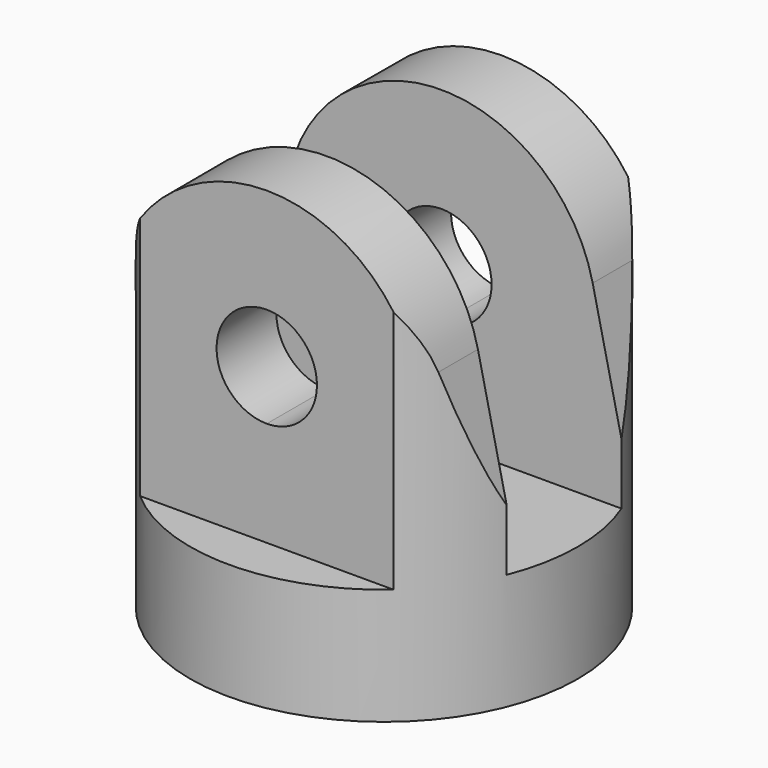
from build123d import *

# Parameters (mm, degrees)
F0_R     = 12.7
F1_DEPTH = 7.62
F3_DEPTH = 12.7
F4_W     = 3.0988
F4_H     = 21.7537892061
F4_H_2   = 20.3239873993
F5_DEPTH = 12.7
F6_DEPTH = 12.7
F7_DEPTH = 25.4
F8_DEPTH = 12.7


with BuildPart() as f1:
    # F0 (on Top) → F1 (new body)
    with BuildSketch(Plane.XY):
        Circle(F0_R)
    extrude(amount=F1_DEPTH)

    # F2 (on Front) → F3 (cut, symmetric)
    with BuildSketch(Plane.XZ):
        with BuildLine():
            ThreePointArc((0, 21.0693), (-3.2893, 17.78), (0, 14.4907))
            Line((0, 14.4907), (0, 21.0693))
        make_face()
        with BuildLine():
            Line((0, 21.0693), (0, 14.4907))
            ThreePointArc((0, 14.4907), (2.3258863354, 15.4541136646), (3.2893, 17.78))
            ThreePointArc((3.2893, 17.78), (2.3258863354, 20.1058863354), (0, 21.0693))
        make_face()
    extrude(amount=F3_DEPTH, both=True, mode=Mode.SUBTRACT)

    # F4 (on Right) → F5 (cut, symmetric)
    with BuildSketch(Plane.YZ):
        with Locations((11.1506, 18.4968946031)):
            Rectangle(F4_W, F4_H)
        Polygon((-4.699, 7.62), (0, 7.62), (4.699, 7.62), (4.699, 28.9018824697), (0, 28.9018824697), (-4.699, 28.9018824697), (-4.699, 27.9439873993), align=None)
        with Locations((-11.1506, 17.7819936997)):
            Rectangle(F4_W, F4_H_2)
    extrude(amount=F5_DEPTH, both=True, mode=Mode.SUBTRACT)

    # F2 (on Front) → F6 (join, symmetric)
    with BuildSketch(Plane.XZ):
        with BuildLine():
            ThreePointArc((0, 7.62), (7.1842048969, 10.5957951031), (10.16, 17.78))
            ThreePointArc((10.16, 17.78), (10.0978587443, 18.9019843049), (9.912195122, 20.0102439024))
            ThreePointArc((9.912195122, 20.0102439024), (6.3469016832, 25.7136271039), (0, 27.94))
            Line((0, 27.94), (0, 21.0693))
            ThreePointArc((0, 21.0693), (2.3258863354, 20.1058863354), (3.2893, 17.78))
            ThreePointArc((3.2893, 17.78), (2.3258863354, 15.4541136646), (0, 14.4907))
            Line((0, 14.4907), (0, 7.62))
        make_face()
        with BuildLine():
            ThreePointArc((9.912195122, 20.0102439024), (10.0978587443, 18.9019843049), (10.16, 17.78))
            ThreePointArc((10.16, 17.78), (7.1842048969, 10.5957951031), (0, 7.62))
            Line((0, 7.62), (12.7, 7.62))
            Line((12.7, 7.62), (9.912195122, 20.0102439024))
        make_face()
        with BuildLine():
            Line((-12.7, 7.62), (0, 7.62))
            ThreePointArc((0, 7.62), (-7.9336271039, 11.4330983168), (-9.912195122, 20.0102439024))
            Line((-9.912195122, 20.0102439024), (-12.7, 7.62))
        make_face()
        with BuildLine():
            ThreePointArc((-9.912195122, 20.0102439024), (-7.9336271039, 11.4330983168), (0, 7.62))
            Line((0, 7.62), (0, 14.4907))
            ThreePointArc((0, 14.4907), (-3.2893, 17.78), (0, 21.0693))
            Line((0, 21.0693), (0, 27.94))
            ThreePointArc((0, 27.94), (-6.3469016832, 25.7136271039), (-9.912195122, 20.0102439024))
        make_face()
    extrude(amount=F6_DEPTH, both=True)

    # F7 (cut): faces of the model
    f7_faces = [f1.faces().sort_by_distance(p)[0] for p in [
        (-9.8632271754, 9.8632271754, 7.62),
        (9.8632271754, 9.8632271754, 7.62),
        (9.8632271754, -9.8632271754, 7.62),
        (-9.8632271754, -9.8632271754, 7.62),
    ]]
    extrude(f7_faces, amount=-F7_DEPTH, mode=Mode.SUBTRACT)

    # F4 (on Right) → F8 (cut, symmetric)
    with BuildSketch(Plane.YZ):
        with Locations((11.1506, 18.4968946031)):
            Rectangle(F4_W, F4_H)
        Polygon((-4.699, 7.62), (0, 7.62), (4.699, 7.62), (4.699, 28.9018824697), (0, 28.9018824697), (-4.699, 28.9018824697), (-4.699, 27.9439873993), align=None)
        with Locations((-11.1506, 17.7819936997)):
            Rectangle(F4_W, F4_H_2)
    extrude(amount=F8_DEPTH, both=True, mode=Mode.SUBTRACT)


solid = f1.part
